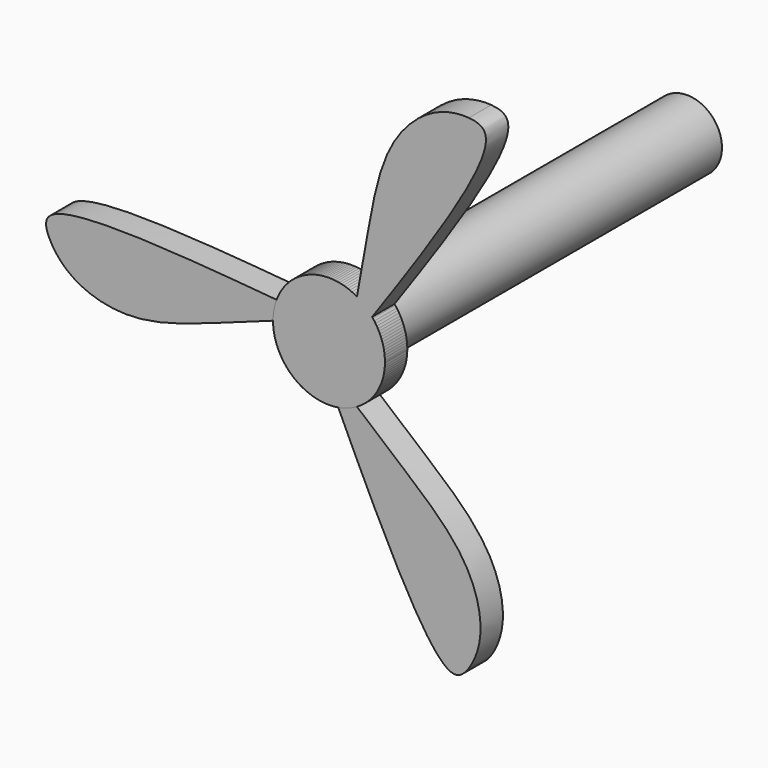
from build123d import *

# Parameters (mm, degrees)
F1_DEPTH = 2.54
F2_R     = 3.175
F3_DEPTH = 38.1
F4_COUNT = 3


with BuildPart() as f1:
    # F0 (on Front) → F1 (new body)
    with BuildSketch(Plane.XZ):
        with BuildLine():
            Line((0, 0), (5.08, 0))
            ThreePointArc((5.08, 0), (0.9033998417, 4.9990267779), (-4.7586884748, 1.778))
            ThreePointArc((-4.7586884748, 1.778), (-4.9990267779, 0.9033998417), (-5.08, 0))
            Line((-5.08, 0), (0, 0))
        make_face()
        with BuildLine():
            ThreePointArc((-5.08, 0), (0, -5.08), (5.08, 0))
            Line((5.08, 0), (0, 0))
            Line((0, 0), (-5.08, 0))
        make_face()
        with BuildLine():
            ThreePointArc((-5.08, 0), (-4.9990267779, 0.9033998417), (-4.7586884748, 1.778))
            add(Edge.make_bspline(
                [(-25.4, 0), (-25.7153418317, 0.6607409301), (-26.3927866266, 3.5580379398), (-14.2062651699, 2.6032654902), (-4.7586884748, 1.778)],
                knots=[0.5720811081, 0.5720811081, 0.5720811081, 0.5720811081, 0.6692588414, 1, 1, 1, 1], degree=3))
            Line((-25.4, 0), (-5.08, 0))
        make_face()
        with BuildLine():
            add(Edge.make_bspline(
                [(-5.08, 0), (-10.2365572724, -1.7600364577), (-16.7272481742, -4.7515749364), (-23.2490395432, -3.0302364015), (-24.9646135716, -0.9122723494), (-25.4, 0)],
                knots=[0, 0, 0, 0, 0.2623847116, 0.4379096727, 0.5720811081, 0.5720811081, 0.5720811081, 0.5720811081], degree=3))
            Line((-5.08, 0), (-25.4, 0))
        make_face()
    extrude(amount=F1_DEPTH)


with BuildPart() as f3:
    # F2 (on face) → F3 (new body)
    with BuildSketch(Plane(origin=(0, 0, 0), x_dir=(-1, 0, 0), z_dir=(0, 1, 0))):
        Circle(F2_R)
    extrude(amount=F3_DEPTH)


with BuildPart() as f4_1:
    # F4: instance of F1
    add(f1.part.rotate(Axis((0, 0, 0), (0, -1, 0)), 1 * 360 / F4_COUNT))


with BuildPart() as f4_2:
    # F4: instance of F1
    add(f1.part.rotate(Axis((0, 0, 0), (0, -1, 0)), 2 * 360 / F4_COUNT))


solid = Compound([f1.part, f3.part, f4_1.part, f4_2.part])
